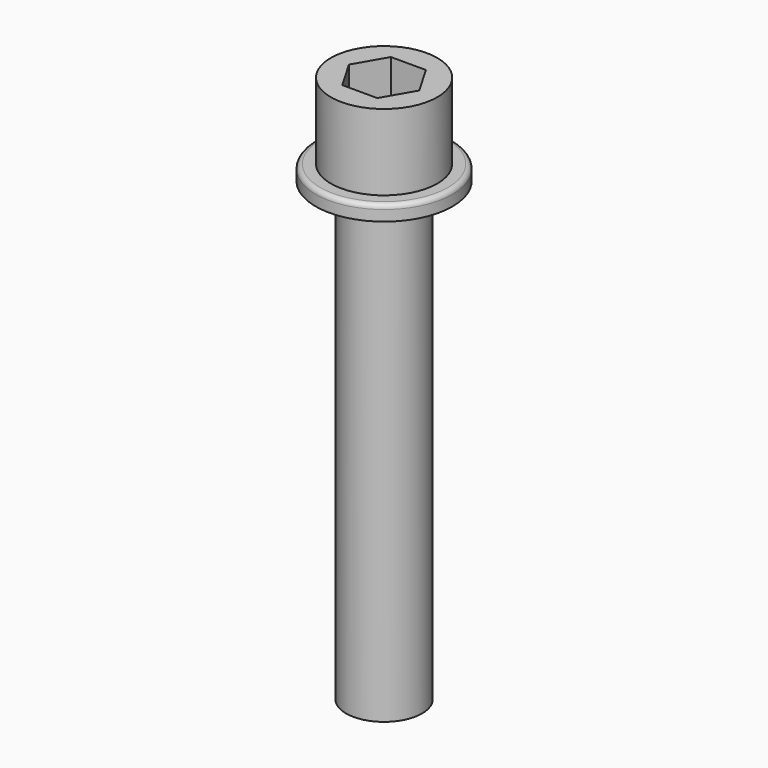
from build123d import *

# Parameters (mm, degrees)
F0_R     = 3.5
F1_DEPTH = 5
F2_R     = 4.5
F3_DEPTH = 1
F4_R     = 2.5
F5_DEPTH = 30
F6_R     = 0.3


with BuildPart() as f1:
    # F0 (on Top) → F1 (new body)
    with BuildSketch(Plane.XY):
        Circle(F0_R)
        Polygon((-2.309401, 0), (-1.154701, 2), (1.154701, 2), (2.309401, 0), (1.154701, -2), (-1.154701, -2), align=None, mode=Mode.SUBTRACT)
    extrude(amount=F1_DEPTH)

    # F2 (on face) → F3 (join)
    with BuildSketch(Plane(origin=(0, 0, 0), x_dir=(1, 0, 0), z_dir=(0, 0, -1))):
        Circle(F2_R)
    extrude(amount=F3_DEPTH)

    # F4 (on face) → F5 (join)
    with BuildSketch(Plane(origin=(0, 0, -1), x_dir=(1, 0, 0), z_dir=(0, 0, -1))):
        Circle(F4_R)
    extrude(amount=F5_DEPTH)

    # F6
    f6_edges = [f1.edges().sort_by_distance(p)[0] for p in [
        (-4.5, 0, 0),
    ]]
    fillet(f6_edges, radius=F6_R)


solid = f1.part
